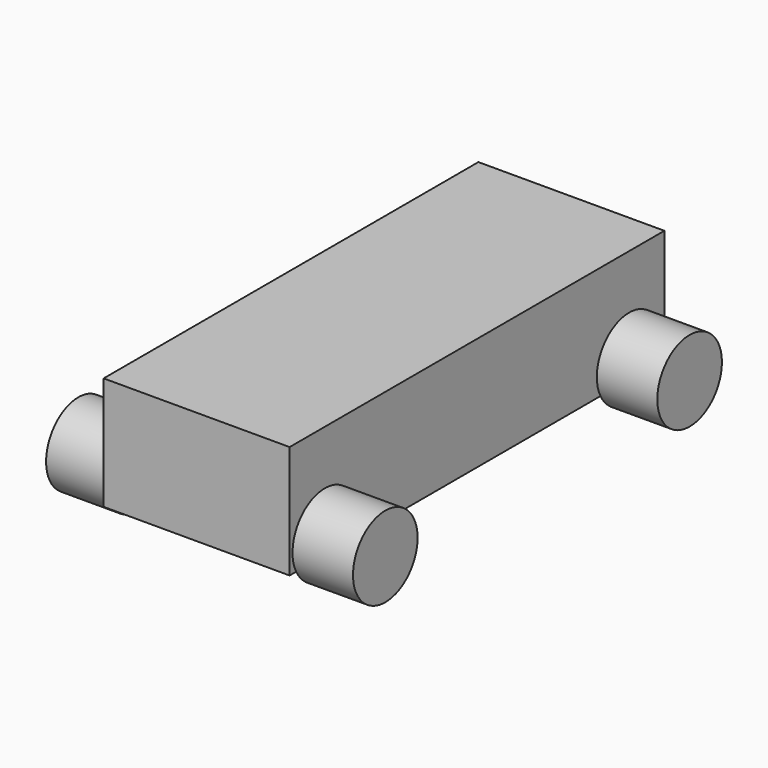
from build123d import *

# Parameters (mm, degrees)
F0_W     = 230.26
F0_H     = 140
F1_DEPTH = 580
F2_R     = 50
F3_DEPTH = 74.87
F4_R     = 50
F5_DEPTH = 74.87


with BuildPart() as f1:
    # F0 (on Front) → F1 (new body)
    with BuildSketch(Plane.XZ):
        with Locations((-11.937493, 2.456602)):
            Rectangle(F0_W, F0_H)
    extrude(amount=F1_DEPTH)

    # F2 (on face) → F3 (join)
    with BuildSketch(Plane(origin=(-127.067493, 0, 0), x_dir=(0, -1, 0), z_dir=(-1, 0, 0))):
        with Locations((54.5, -44.543398)):
            Circle(F2_R)
        with Locations((525.5, -44.543398)):
            Circle(F2_R)
    extrude(amount=F3_DEPTH)

    # F4 (on face) → F5 (join)
    with BuildSketch(Plane.YZ.offset(103.192507)):
        with Locations((-525.5, -44.543398)):
            Circle(F4_R)
        with Locations((-54.5, -44.543398)):
            Circle(F4_R)
    extrude(amount=F5_DEPTH)


solid = f1.part
